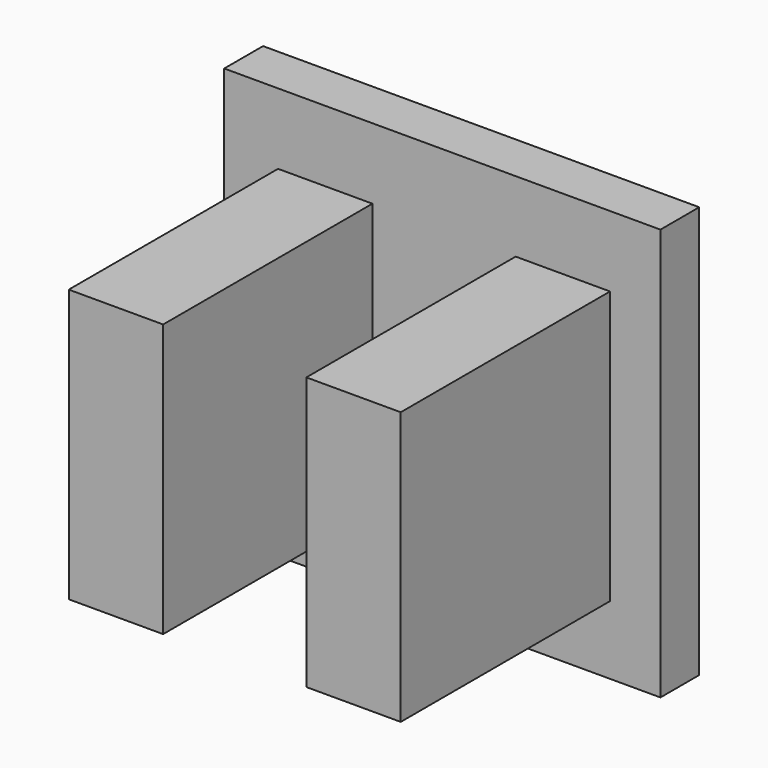
from build123d import *

# Parameters (mm, degrees)
F0_W     = 20.32
F0_H     = 19.186653
F1_DEPTH = 2.26077
F2_W     = 4.396148
F2_H     = 12.7
F3_DEPTH = 12.18664


with BuildPart() as f1:
    # F0 (on Front) → F1 (new body)
    with BuildSketch(Plane.XZ):
        with Locations((-10.16, 11.454718)):
            Rectangle(F0_W, F0_H)
    extrude(amount=F1_DEPTH)

    # F2 (on face) → F3 (join)
    with BuildSketch(Plane.XZ.offset(2.26077)):
        with Locations((-15.614839, 11.398978)):
            Rectangle(F2_W, F2_H)
        with Locations((-4.54603, 11.398978)):
            Rectangle(F2_W, F2_H)
    extrude(amount=F3_DEPTH)


solid = f1.part
